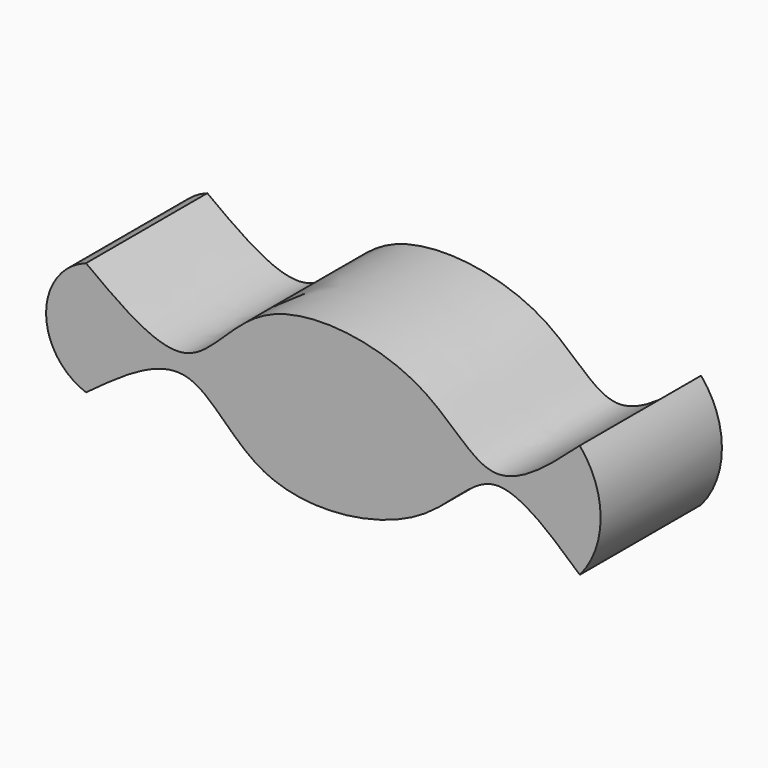
from build123d import *

# Parameters (mm, degrees)
F1_DEPTH = 25.4


with BuildPart() as f1:
    # F0 (on Front) → F1 (new body)
    with BuildSketch(Plane.XZ):
        with BuildLine():
            ThreePointArc((40.7575390412, -9.5306946916), (44.2497698, 0), (40.7575390412, 9.5306946916))
            add(Edge.make_bspline(
                [(40.7575390412, 9.5306946916), (35.6975871344, 5.0077485153), (25.7865406262, -3.8514522701), (15.2969958061, 12.6607515694), (-13.6378778073, 16.3733116989), (-24.185698098, -3.626424955), (-35.9526487447, 5.0756135752), (-41.9768371509, 9.5306946916)],
                knots=[0, 0, 0, 0, 0.1903027421, 0.3727504454, 0.6089972825, 0.7998229016, 1, 1, 1, 1], degree=3))
            ThreePointArc((-41.9768371509, 9.5306946916), (-48.6696772277, 0), (-41.9768371509, -9.5306946916))
            add(Edge.make_bspline(
                [(40.7575390412, -9.5306946916), (35.6975871344, -5.0077485153), (25.7865406262, 3.8514522701), (15.2969958061, -12.6607515694), (-13.6378778073, -16.3733116989), (-24.185698098, 3.626424955), (-35.9526487447, -5.0756135752), (-41.9768371509, -9.5306946916)],
                knots=[0, 0, 0, 0, 0.1903027421, 0.3727504454, 0.6089972825, 0.7998229016, 1, 1, 1, 1], degree=3))
        make_face()
    extrude(amount=F1_DEPTH)


solid = f1.part
